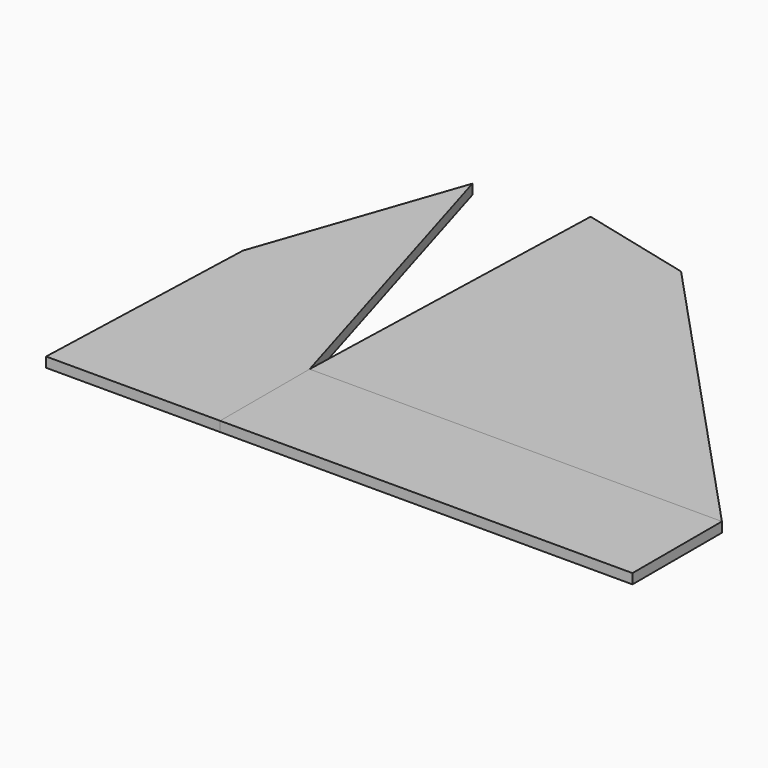
from build123d import *

# Parameters (mm, degrees)
F1_DEPTH = 3
F0_W     = 124.340176
F0_H     = 33.72434
F2_DEPTH = 3


with BuildPart() as f1:
    # F0 (on Top) → F1 (new body)
    with BuildSketch(Plane.XY):
        Polygon((-52.492669, 0), (0, 0), (0, 33.72434), (-29.183278, 131.564419), (-50.037384, 71.089506), align=None)
        Polygon((3.094122, 135.777126), (0, 33.72434), (124.340176, 33.72434), (37.181218, 127.272727), align=None)
    extrude(amount=F1_DEPTH)


with BuildPart() as f2:
    # F0 (on Top) → F2 (new body)
    with BuildSketch(Plane.XY):
        with Locations((62.170088, 16.86217)):
            Rectangle(F0_W, F0_H)
    extrude(amount=F2_DEPTH)


solid = Compound([f1.part, f2.part])
